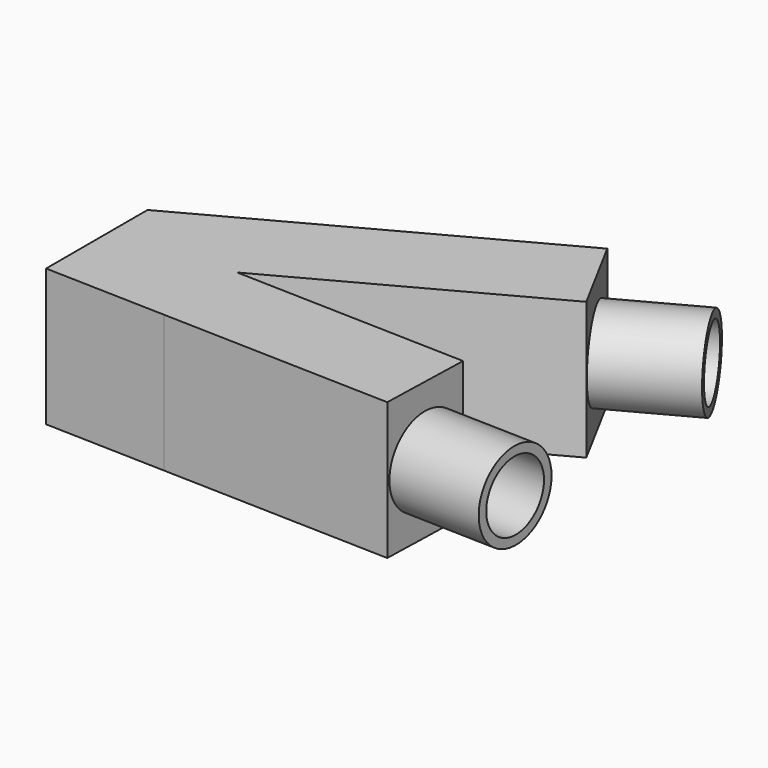
from build123d import *

# Parameters (mm, degrees)
F1_DEPTH = 15
F2_DEPTH = 15
F3_R     = 9.4573598756
F3_R_2   = 7.62
F4_DEPTH = 20
F5_R     = 9.6111895613
F5_R_2   = 7.62
F6_DEPTH = 20


with BuildPart() as f1:
    # F0 (on Top) → F1 (new body)
    with BuildSketch(Plane.XY):
        Polygon((-83.9506240486, -25.2640620153), (-57.5444474816, -26.0300338268), (-7.5654697983, -27.4797888861), (-6.9855677746, -7.4881978128), (-57.5444474816, -6.0216213632), (-4.2142863446, 22.7399175335), (-13.707871997, 40.3430942769), (-83.9506240486, 2.4604102147), align=None)
    extrude(amount=F1_DEPTH)

    # F2 (add): a face of the model
    f2_faces = [f1.faces().sort_by_distance(p)[0] for p in [
        (-48.3323554586, 20.4804051436, 0),
    ]]
    extrude(f2_faces, amount=F2_DEPTH)

    # F3 (on face) → F4 (join)
    with BuildSketch(Plane(origin=(6.235860558, 3.3630677682, 0), x_dir=(-0.4746792826, 0.8801588372, 0), z_dir=(0.8801588372, 0.4746792826, 0))):
        with Locations((32.0151737925, 0)):
            Circle(F3_R)
        with Locations((32.0151737925, 0)):
            Circle(F3_R_2, mode=Mode.SUBTRACT)
    extrude(amount=F4_DEPTH)

    # F5 (on face) → F6 (join)
    with BuildSketch(Plane(origin=(-6.7626651312, 0.1961666373, 0), x_dir=(0.0289951012, 0.9995795537, 0), z_dir=(0.9995795537, -0.0289951012, 0))):
        with Locations((-17.5103756727, -0.2658314989)):
            Circle(F5_R)
        with Locations((-17.5103756727, -0.2658314989)):
            Circle(F5_R_2, mode=Mode.SUBTRACT)
    extrude(amount=F6_DEPTH)


solid = f1.part
